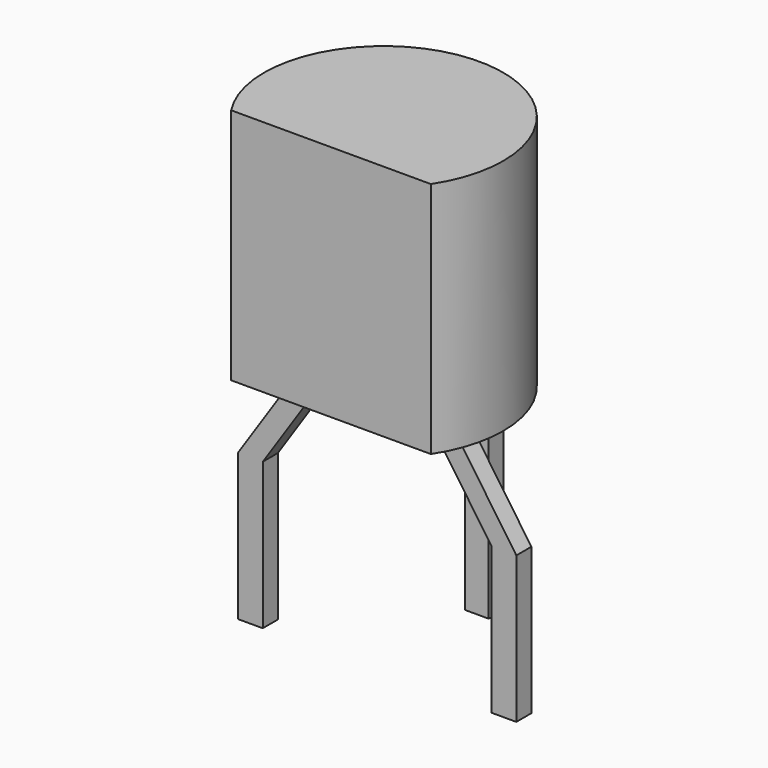
from build123d import *

# Parameters (mm, degrees)
PAD001_DEPTH = 0.19
PAD_DEPTH    = 4.8
PAD002_DEPTH = 0.24


with BuildPart() as pad001:
    # Sketch001 → Pad001 (new body, symmetric)
    with BuildSketch(Plane.XZ):
        Polygon((0.25, -2.46), (-0.25, -2.46), (-0.25, 0.5), (1.02, 2.4), (1.02, 3.04), (1.52, 3.04), (1.52, 2.4), (0.25, 0.5), align=None)
        Polygon((3.56, 3.04), (4.06, 3.04), (4.06, 2.4), (5.37, 0.5), (5.37, -2.46), (4.87, -2.46), (4.87, 0.5), (3.56, 2.4), align=None)
    extrude(amount=PAD001_DEPTH, both=True)


with BuildPart() as pad:
    # Sketch → Pad (new body)
    with BuildSketch(Plane.XY.offset(2.5)):
        with BuildLine():
            Line((0.524231, -1.33), (4.555769, -1.33))
            ThreePointArc((4.555769, -1.33), (2.54, 2.415), (0.524231, -1.33))
        make_face()
    extrude(amount=PAD_DEPTH)


with BuildPart() as to_92_wide:
    # Sketch002 → Pad002 (new body, symmetric)
    with BuildSketch(Plane.YZ.offset(2.54)):
        Polygon((-0.19, 2.5), (0.19, 2.5), (0.19, 2.2), (2.73, 1.2), (2.73, -2.5), (2.35, -2.5), (2.35, 1), (-0.19, 2), align=None)
    extrude(amount=PAD002_DEPTH, both=True)

    add(pad001.part)
    add(pad.part)


solid = to_92_wide.part
